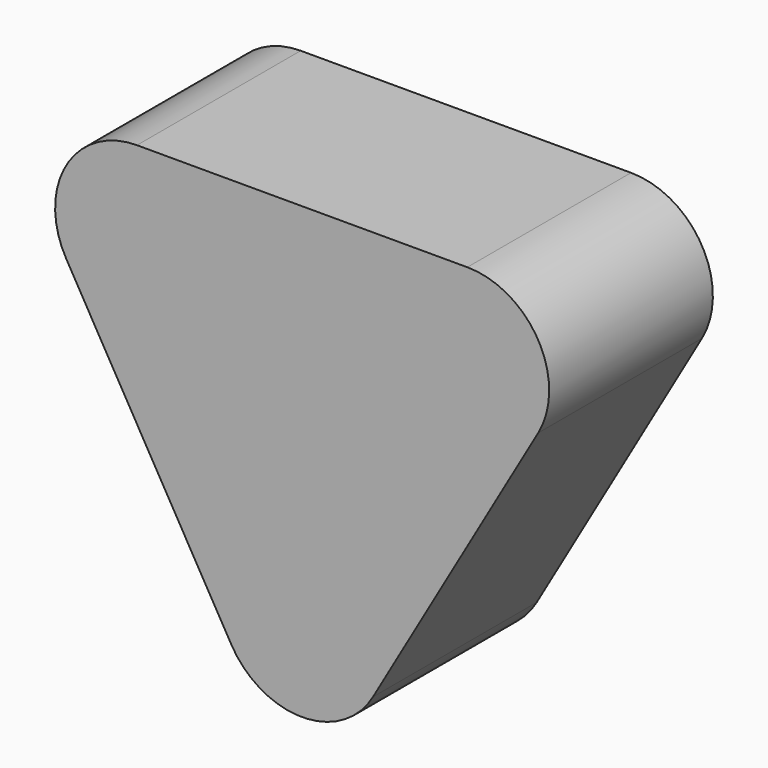
from build123d import *

# Parameters (mm, degrees)
F1_DEPTH = 25.4


with BuildPart() as f1:
    # F0 (on Front) → F1 (new body)
    with BuildSketch(Plane.XZ):
        with BuildLine():
            Line((-29.301182, 15.078336), (-8.798818, -20.4328))
            ThreePointArc((-8.798818, -20.4328), (0, -25.5128), (8.798818, -20.4328))
            Line((8.798818, -20.4328), (29.301182, 15.078336))
            ThreePointArc((29.301182, 15.078336), (29.301182, 25.238336), (20.502364, 30.318336))
            Line((20.502364, 30.318336), (-20.502364, 30.318336))
            ThreePointArc((-20.502364, 30.318336), (-29.301182, 25.238336), (-29.301182, 15.078336))
        make_face()
    extrude(amount=F1_DEPTH)


solid = f1.part
